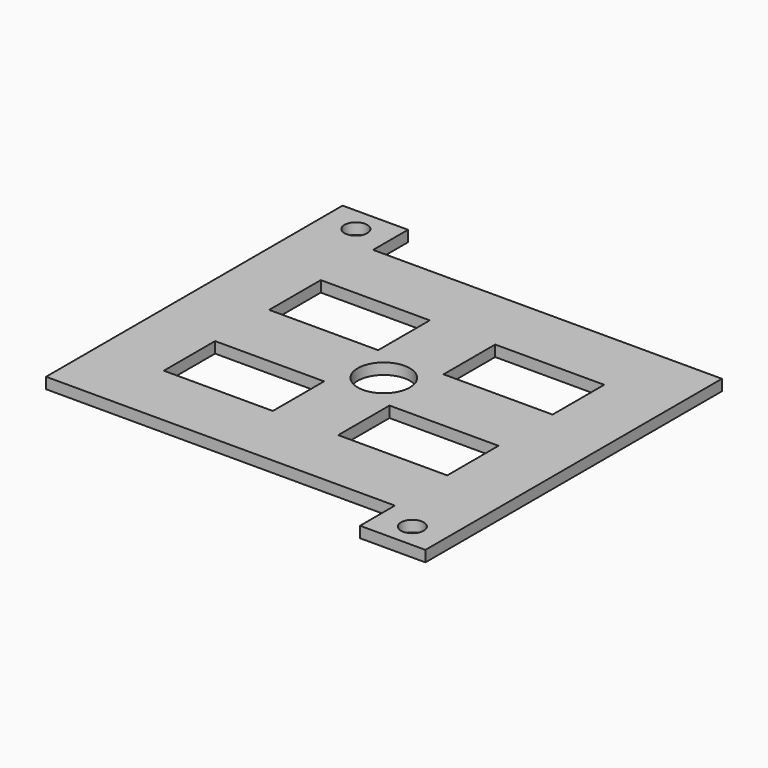
from build123d import *

# Parameters (mm, degrees)
F0_W      = 482.6
F0_H      = 482.6
F1_DEPTH  = 12.8524
F2_W      = 330.2
F2_H      = 12.8524
F2_W_2    = 76.2
F3_DEPTH  = 50.8
F4_W      = 330.2
F4_H      = 12.8524
F4_W_2    = 76.2
F5_DEPTH  = 50.8
F8_W      = 127
F8_H      = 74.67717
F8_H_2    = 75.18283
F9_W      = 127
F9_H      = 74.67717
F10_DEPTH = 25.4
F12_R     = 13.2461
F12_R_2   = 30.353
F13_DEPTH = 25.4


with BuildPart() as f1:
    # F0 (on Top) → F1 (new body)
    with BuildSketch(Plane.XY):
        with Locations((-241.3, -241.3)):
            Rectangle(F0_W, F0_H)
    extrude(amount=F1_DEPTH)

    # F2 (on face) → F3 (cut)
    with BuildSketch(Plane.XZ.offset(482.6)):
        with Locations((-241.3, 6.4262)):
            Rectangle(F2_W, F2_H)
        with Locations((-444.5, 6.4262)):
            Rectangle(F2_W_2, F2_H)
    extrude(amount=-F3_DEPTH, mode=Mode.SUBTRACT)

    # F4 (on face) → F5 (cut)
    with BuildSketch(Plane(origin=(0, 0, 0), x_dir=(-1, 0, 0), z_dir=(0, 1, 0))):
        with Locations((241.3, 6.4262)):
            Rectangle(F4_W, F4_H)
        with Locations((38.1, 6.4262)):
            Rectangle(F4_W_2, F4_H)
    extrude(amount=-F5_DEPTH, mode=Mode.SUBTRACT)

    # F8 (on face) + F9 (on face) → F10 (cut)
    with BuildSketch(Plane.XY.offset(12.8524)):
        with Locations((-139.7, -318.261415)):
            Rectangle(F8_W, F8_H)
        with Locations((-342.9, -164.591415)):
            Rectangle(F8_W, F8_H_2)
        with Locations((-139.7, -164.591415)):
            Rectangle(F8_W, F8_H_2)
    with BuildSketch(Plane.XY.offset(12.8524)):
        with Locations((-342.9, -318.261415)):
            Rectangle(F9_W, F9_H)
    extrude(amount=-F10_DEPTH, mode=Mode.SUBTRACT)

    # F12 (on face) → F13 (cut)
    with BuildSketch(Plane.XY.offset(12.8524)):
        with Locations((-444.285613, -28.4861)):
            Circle(F12_R)
        with Locations((-241.3, -241.55283)):
            Circle(F12_R_2)
        with Locations((-38.0111, -454.1139)):
            Circle(F12_R)
    extrude(amount=-F13_DEPTH, mode=Mode.SUBTRACT)


solid = f1.part
